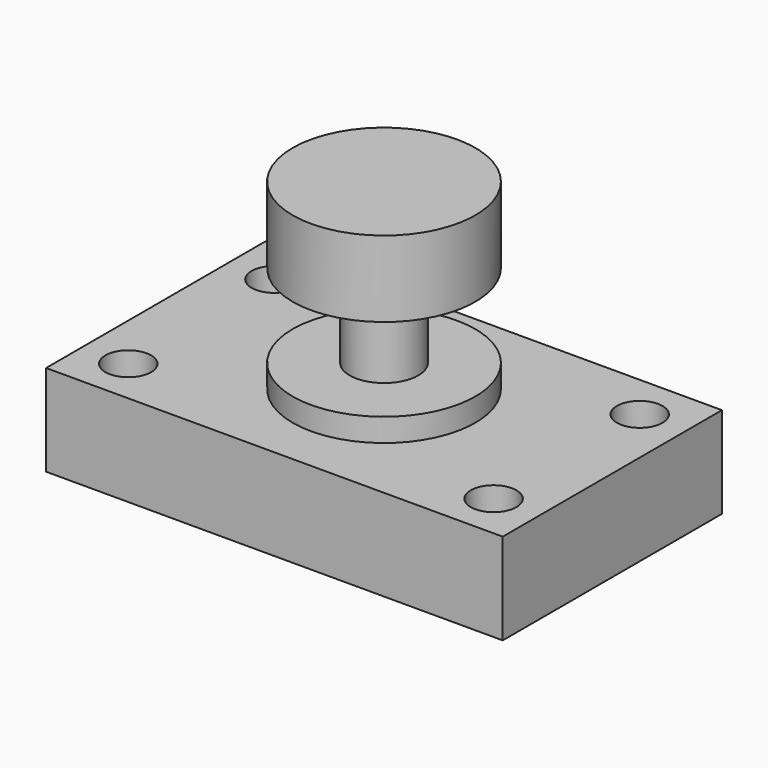
from build123d import *

# Parameters (mm, degrees)
F0_W     = 127
F0_H     = 76.2
F1_DEPTH = 25.4
F2_R     = 6.35
F3_DEPTH = 25.4
F4_W     = 25.4
F4_H     = 50.8
F6_W     = 50.640457
F6_H     = 23.190491


with BuildPart() as f1:
    # F0 (on Top) → F1 (new body)
    with BuildSketch(Plane.XY):
        Rectangle(F0_W, F0_H)
    extrude(amount=F1_DEPTH)

    # F2 (on face) → F3 (cut)
    with BuildSketch(Plane.XY.offset(25.4)):
        with Locations((50.8, -25.4)):
            Circle(F2_R)
        with Locations((-50.8, -25.4)):
            Circle(F2_R)
        with Locations((50.8, 25.4)):
            Circle(F2_R)
        with Locations((-50.8, 25.4)):
            Circle(F2_R)
    extrude(amount=-F3_DEPTH, mode=Mode.SUBTRACT)

    # F4 (on Front) → F5 (revolve)
    with BuildSketch(Plane.XZ):
        with Locations((-12.7, 50.8)):
            Rectangle(F4_W, F4_H)
    revolve(axis=Axis((0, 0, 50.8), (0, 0, 1)))

    # F6 (on Front) → F7 (revolve, cut)
    with BuildSketch(Plane.XZ):
        with Locations((34.864176, 43.432057)):
            Rectangle(F6_W, F6_H)
    revolve(axis=Axis((0, 0, 76.2), (0, 0, -1)), mode=Mode.SUBTRACT)


solid = f1.part
